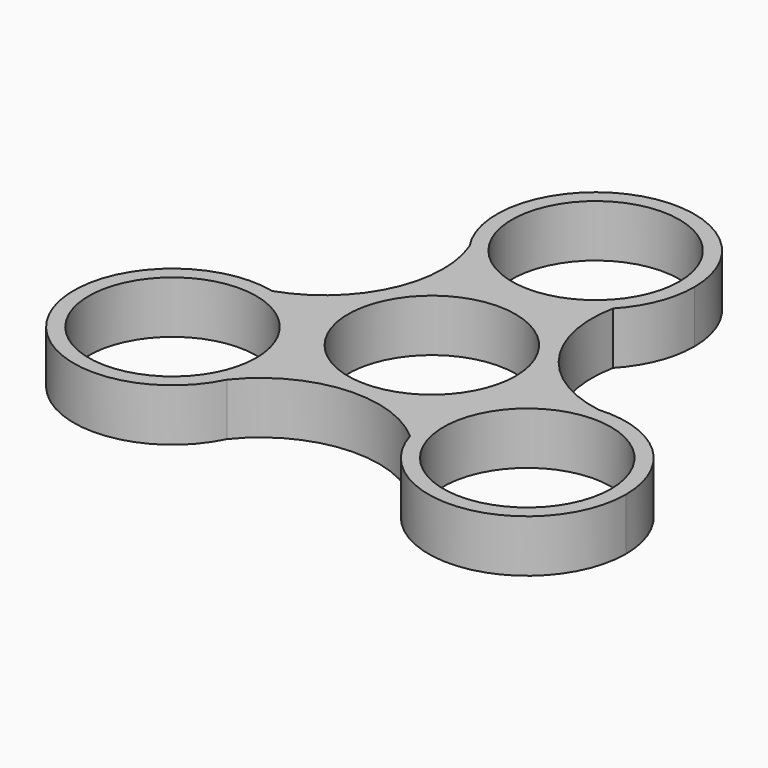
from build123d import *

# Parameters (mm, degrees)
F0_R     = 13.2
F0_R_2   = 11.2
F1_DEPTH = 7


with BuildPart() as f1:
    # F0 (on Top) → F1 (new body)
    with BuildSketch(Plane.XY):
        with BuildLine():
            ThreePointArc((9.5953492139, 18.3128915938), (-1.0631566346, 14.2205026085), (-10.9263000524, 19.9711370473))
            ThreePointArc((-10.9263000524, 19.9711370473), (-11.3263382991, 7.4750183656), (-20.6571039439, -0.8466296194))
            ThreePointArc((-20.6571039439, -0.8466296194), (-13.3527241318, -5.5051193862), (-10.509713096, -13.6888092384))
            ThreePointArc((-10.509713096, -13.6888092384), (-10.8446240081, -16.6433790483), (-11.8323619992, -19.4480219384))
            ThreePointArc((-11.8323619992, -19.4480219384), (-0.8103866488, -13.5464058816), (11.06175473, -17.4662619743))
            ThreePointArc((11.06175473, -17.4662619743), (12.8468948308, -6.1895306505), (22.7586620517, -0.5231151089))
            ThreePointArc((22.7586620517, -0.5231151089), (12.1367249479, 6.071387516), (9.5953492139, 18.3128915938))
        make_face()
        Circle(F0_R, mode=Mode.SUBTRACT)
        with BuildLine():
            ThreePointArc((9.5953492139, 18.3128915938), (12.2657777907, 22.5000478532), (13.2, 27.3776184767))
            ThreePointArc((13.2, 27.3776184767), (-3.8738120313, 39.9963973537), (-10.9263000524, 19.9711370473))
            ThreePointArc((-10.9263000524, 19.9711370473), (-1.0631566346, 14.2205026085), (9.5953492139, 18.3128915938))
        make_face()
        with Locations((0, 27.3776184767)):
            Circle(F0_R_2, mode=Mode.SUBTRACT)
        with BuildLine():
            ThreePointArc((-10.509713096, -13.6888092384), (-13.3527241318, -5.5051193862), (-20.6571039439, -0.8466296194))
            ThreePointArc((-20.6571039439, -0.8466296194), (-35.6356879957, -19.3466465187), (-11.8323619992, -19.4480219384))
            ThreePointArc((-11.8323619992, -19.4480219384), (-10.8446240081, -16.6433790483), (-10.509713096, -13.6888092384))
        make_face()
        with Locations((-23.709713096, -13.6888092384)):
            Circle(F0_R_2, mode=Mode.SUBTRACT)
        with BuildLine():
            ThreePointArc((36.909713096, -13.6888092384), (32.7009901525, -4.0246001713), (22.7586620517, -0.5231151089))
            ThreePointArc((22.7586620517, -0.5231151089), (12.8468948308, -6.1895306505), (11.06175473, -17.4662619743))
            ThreePointArc((11.06175473, -17.4662619743), (25.6185019226, -26.7500697141), (36.909713096, -13.6888092384))
        make_face()
        with Locations((23.709713096, -13.6888092384)):
            Circle(F0_R_2, mode=Mode.SUBTRACT)
        Circle(F0_R)
        Circle(F0_R_2, mode=Mode.SUBTRACT)
    extrude(amount=F1_DEPTH)


solid = f1.part
